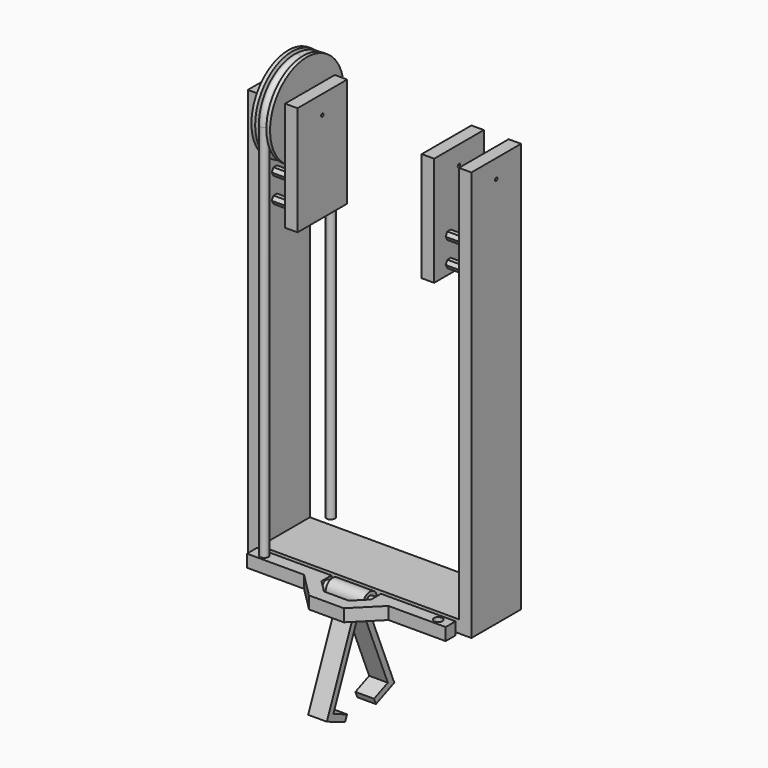
from build123d import *

# Parameters (mm, degrees)
F1_DEPTH  = 31.75
F3_DEPTH  = 25.4
F4_W      = 63.5
F4_H      = 111.76
F5_DEPTH  = 12.7
F6_R      = 1.5875
F7_DEPTH  = 50.801
F11_R     = 4.3435611304
F15_DEPTH = 12.7
F21_DEPTH = 9.525
F22_R     = 4.3435611304
F23_DEPTH = 109.9373196852


with BuildPart() as f1:
    # F0 (on Front) → F1 (new body, symmetric)
    with BuildSketch(Plane.XZ):
        Polygon((-114.3, 0), (0, 0), (0, 12.7), (-101.6, 12.7), (-101.6, 419.1), (-114.3, 419.1), align=None)
    extrude(amount=F1_DEPTH, both=True)

    # F2 (on face) → F3 (join)
    with BuildSketch(Plane.YZ.offset(-101.6)):
        Polygon((-14.8997045256, 339.09), (-10.5002954744, 339.09), (-8.3005909488, 342.9), (-10.5002954744, 346.71), (-14.8997045256, 346.71), (-17.0994090512, 342.9), align=None)
        Polygon((14.8997045256, 339.09), (17.0994090512, 342.9), (14.8997045256, 346.71), (10.5002954744, 346.71), (8.3005909488, 342.9), (10.5002954744, 339.09), align=None)
        Polygon((-14.8997045256, 313.69), (-10.5002954744, 313.69), (-8.3005909488, 317.5), (-10.5002954744, 321.31), (-14.8997045256, 321.31), (-17.0994090512, 317.5), align=None)
        Polygon((14.8997045256, 313.69), (17.0994090512, 317.5), (14.8997045256, 321.31), (10.5002954744, 321.31), (8.3005909488, 317.5), (10.5002954744, 313.69), align=None)
    extrude(amount=F3_DEPTH)

    # F4 (on face) → F5 (join)
    with BuildSketch(Plane.YZ.offset(-76.2)):
        with Locations((0, 363.22)):
            Rectangle(F4_W, F4_H)
    extrude(amount=F5_DEPTH)

    # F6 (on face) → F7 (cut, through all)
    with BuildSketch(Plane.YZ.offset(-63.5)):
        with Locations((0, 400.05)):
            Circle(F6_R)
    extrude(amount=-F7_DEPTH, mode=Mode.SUBTRACT)

    # F8: F1 across plane


with BuildPart() as f1_1:
    add(f1.part)
    add(f1.part.mirror(Plane.YZ))


with BuildPart() as f10:
    # F9 (on Front) → F10 (revolve)
    with BuildSketch(Plane.XZ):
        Polygon((-98.425, 447.04), (-98.425, 400.05), (-79.375, 400.05), (-79.375, 447.04), (-83.185, 447.04), (-85.5670683207, 438.15), (-92.2329316793, 438.15), (-94.615, 447.04), align=None)
    revolve(axis=Axis((-88.9, 0, 400.05), (1, 0, 0)))


with BuildPart() as f13:
    # F13: sweep along a path in F12
    with BuildLine(Plane.YZ) as f13_path:
        Line((42.4435611304, 12.7), (42.4435611304, 400.05))
        ThreePointArc((42.4435611304, 400.05), (30.012129893, 430.062129893), (0, 442.4935611304))
        ThreePointArc((0, 442.4935611304), (-30.012129893, 430.062129893), (-42.4435611304, 400.05))
        Line((-42.4435611304, 400.05), (-42.4435611304, 12.7))
    # F11 (on Front) → F13 (sweep)
    with BuildSketch(Plane.XZ):
        with Locations((-88.9, 442.4935611304)):
            Circle(F11_R)
    sweep(path=f13_path.line)


with BuildPart() as f15:
    # F14 (on face) → F15 (new body)
    with BuildSketch(Plane(origin=(0, 0, 12.7), x_dir=(1, 0, 0), z_dir=(0, 0, -1))):
        Polygon((-43.18, 48.7935611304), (-101.6, 48.7935611304), (-101.6, 36.0935611304), (-25.4, 36.0935611304), (-25.4, 48.7935611304), (-12.7, 61.4935611304), (12.7, 61.4935611304), (25.4, 48.7935611304), (25.4, 36.0935611304), (101.6, 36.0935611304), (101.6, 48.7935611304), (43.18, 48.7935611304), (17.78, 74.1935611304), (-17.78, 74.1935611304), align=None)
    extrude(amount=F15_DEPTH)

    # F22 (on face) → F23 (cut, through all)
    with BuildSketch(Plane.XY.offset(12.7)):
        with Locations((-88.9, -42.4435611304)):
            Circle(F22_R)
        with Locations((88.9, -42.4435611304)):
            Circle(F22_R)
    extrude(amount=-F23_DEPTH, mode=Mode.SUBTRACT)


with BuildPart() as f19:
    # F18 (on plane+point) → F19 (revolve)
    with BuildSketch(Plane.XZ.offset(42.4435611304)):
        Polygon((-25.4, 11.43), (-25.4, 6.35), (25.4, 6.35), (25.4, 11.43), (19.05, 11.43), (19.05, 15.24), (-19.05, 15.24), (-19.05, 11.43), align=None)
    revolve(axis=Axis((0, -42.4435611304, 6.35), (1, 0, 0)))

    # F20 (on Right) → F21 (join, symmetric)
    with BuildSketch(Plane.YZ):
        Polygon((-38.2006267796, 6.35), (-46.6864954812, 6.35), (-85.5671322095, -87.5161605031), (-62.1005920837, -97.2363196852), (-59.6705522882, -91.3696846538), (-77.2704573825, -84.0795652672), (-42.4435611304, 0), (-7.6166648783, -84.0795652672), (-25.2165699726, -91.3696846538), (-22.7865301771, -97.2363196852), (0.6800099487, -87.5161605031), align=None)
    extrude(amount=F21_DEPTH, both=True)


solid = Compound([f1_1.part, f10.part, f13.part, f15.part, f19.part])
